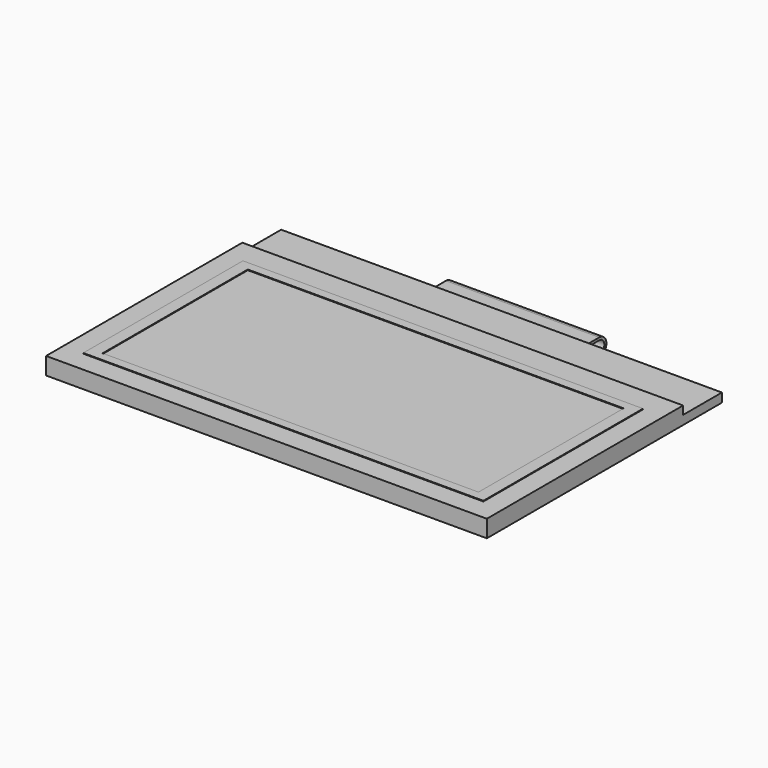
from build123d import *

# Parameters (mm, degrees)
SKETCH030_W      = 34.5
SKETCH030_H      = 19.2
PAD018_DEPTH     = 0.65
SKETCH031_W      = 31.32
SKETCH031_H      = 15.62
SKETCH031_W_2    = 29.42
SKETCH031_H_2    = 14.2
PAD019_DEPTH     = 0.05
SKETCH032_W      = 34.5
SKETCH032_H      = 23
PAD020_DEPTH     = 0.7
SKETCH033_W      = 33.5
SKETCH033_H      = 18.2
PAD021_DEPTH     = 0.25
PAD024_DEPTH     = 0.2
SKETCH038_W      = 12
SKETCH038_H      = 0.2
REVOLUTION_ANGLE = 180
SKETCH039_R      = 0.4
PAD025_DEPTH     = 0.2


with BuildPart() as part:
    # Sketch030 (on Face1 of CopyPad017) → Pad018 (new body)
    with BuildSketch(Plane(origin=(0, 0, 8.95), x_dir=(1, 0, 0), z_dir=(0, 0, -1))):
        with Locations((20.25, -28.15)):
            Rectangle(SKETCH030_W, SKETCH030_H)
    extrude(amount=PAD018_DEPTH)

    # Sketch031 (on Face5 of Pad018) → Pad019 (join)
    with BuildSketch(Plane.XY.offset(8.95)):
        with Locations((20.25, 28.01)):
            Rectangle(SKETCH031_W, SKETCH031_H)
        with Locations((20.25, 28.01)):
            Rectangle(SKETCH031_W_2, SKETCH031_H_2, mode=Mode.SUBTRACT)
    extrude(amount=PAD019_DEPTH)

    # Sketch032 (on Face5 of Pad019) → Pad020 (join)
    with BuildSketch(Plane(origin=(0, 0, 8.3), x_dir=(1, 0, 0), z_dir=(0, 0, -1))):
        with Locations((20.25, -30.05)):
            Rectangle(SKETCH032_W, SKETCH032_H)
    extrude(amount=PAD020_DEPTH)

    # Sketch033 (on Face13 of Pad020) → Pad021 (join)
    with BuildSketch(Plane(origin=(0, 0, 7.6), x_dir=(1, 0, 0), z_dir=(0, 0, -1))):
        with Locations((20.25, -28.15)):
            Rectangle(SKETCH033_W, SKETCH033_H)
    extrude(amount=PAD021_DEPTH)

    # Sketch037 (on Face13 of Pad021) → Pad024 (join)
    with BuildSketch(Plane(origin=(0, 0, 7.6), x_dir=(1, 0, 0), z_dir=(0, 0, -1))):
        Polygon((12.65, -37.25), (27.85, -37.25), (27.85, -41.05), (26.25, -41.05), (26.25, -43.61), (14.25, -43.61), (14.25, -41.05), (12.65, -41.05), align=None)
    extrude(amount=PAD024_DEPTH)

    # Sketch038 (on Face32 of Pad024) → Revolution (revolve)
    with BuildSketch(Plane(origin=(0, 43.61, 0), x_dir=(-1, 0, 0), z_dir=(0, 1, 0))):
        with Locations((-20.25, 7.5)):
            Rectangle(SKETCH038_W, SKETCH038_H)
    revolve(axis=Axis((26.262199, 43.61, 6.9), (-1, 0, 0)), revolution_arc=REVOLUTION_ANGLE)

    # Sketch039 (on Face27 of Revolution) → Pad025 (join)
    with BuildSketch(Plane.XY.offset(6.2)):
        Polygon((14.25, 43.61), (14.25, 43.406751), (9.25, 40.52), (9.25, 36.52), (31.25, 36.52), (31.25, 40.52), (26.25, 43.406751), (26.25, 43.61), align=None)
        with Locations((12.25, 41.27)):
            Circle(SKETCH039_R, mode=Mode.SUBTRACT)
        with Locations((28.25, 41.27)):
            Circle(SKETCH039_R, mode=Mode.SUBTRACT)
    extrude(amount=PAD025_DEPTH)


solid = part.part
